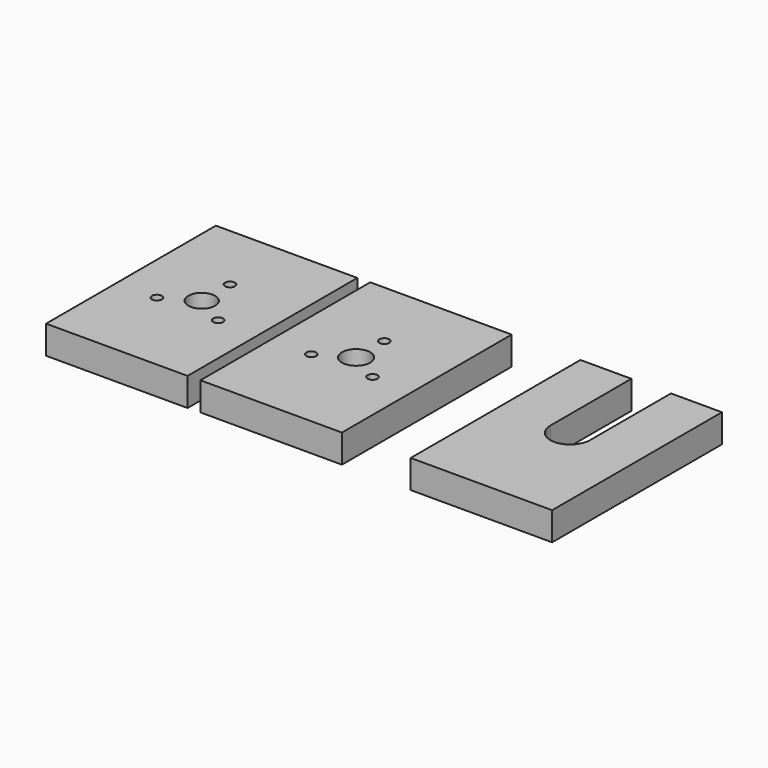
from build123d import *

# Parameters (mm, degrees)
F0_W     = 100
F0_H     = 150
F0_R     = 3.5
F0_R_2   = 10
F0_R_3   = 9.5
F1_DEPTH = 20
F2_W     = 14
F2_H     = 20
F3_DEPTH = 71.55
F5_DEPTH = 25


with BuildPart() as f1:
    # F0 (on Top) → F1 (new body)
    with BuildSketch(Plane.XY):
        with Locations((21.713901, 47.46569)):
            Rectangle(F0_W, F0_H)
        with Locations((0.063265, 34.96569)):
            Circle(F0_R, mode=Mode.SUBTRACT)
        with Locations((43.364536, 34.96569)):
            Circle(F0_R, mode=Mode.SUBTRACT)
        with Locations((21.713901, 47.46569)):
            Circle(F0_R_2, mode=Mode.SUBTRACT)
        with Locations((21.713901, 72.46569)):
            Circle(F0_R, mode=Mode.SUBTRACT)
        with Locations((-87.113902, 47.120893)):
            Rectangle(F0_W, F0_H)
        with Locations((-108.764537, 34.620893)):
            Circle(F0_R, mode=Mode.SUBTRACT)
        with Locations((-65.463267, 34.620893)):
            Circle(F0_R, mode=Mode.SUBTRACT)
        with Locations((-87.113902, 47.120893)):
            Circle(F0_R_3, mode=Mode.SUBTRACT)
        with Locations((-87.113902, 72.120893)):
            Circle(F0_R, mode=Mode.SUBTRACT)
        with Locations((170.302761, 47.46569)):
            Rectangle(F0_W, F0_H)
    extrude(amount=F1_DEPTH)

    # F2 (on face) → F3 (cut)
    with BuildSketch(Plane(origin=(0, 122.46569, 0), x_dir=(-1, 0, 0), z_dir=(0, 1, 0))):
        with Locations((-177.302761, 10)):
            Rectangle(F2_W, F2_H)
        with Locations((-163.302761, 10)):
            Rectangle(F2_W, F2_H)
    extrude(amount=-F3_DEPTH, mode=Mode.SUBTRACT)

    # F4 (on face) → F5 (cut)
    with BuildSketch(Plane.XY.offset(20)):
        with BuildLine():
            Line((184.302761, 50.91569), (156.302761, 50.91569))
            ThreePointArc((156.302761, 50.91569), (170.302761, 36.91569), (184.302761, 50.91569))
        make_face()
    extrude(amount=-F5_DEPTH, mode=Mode.SUBTRACT)


solid = f1.part
